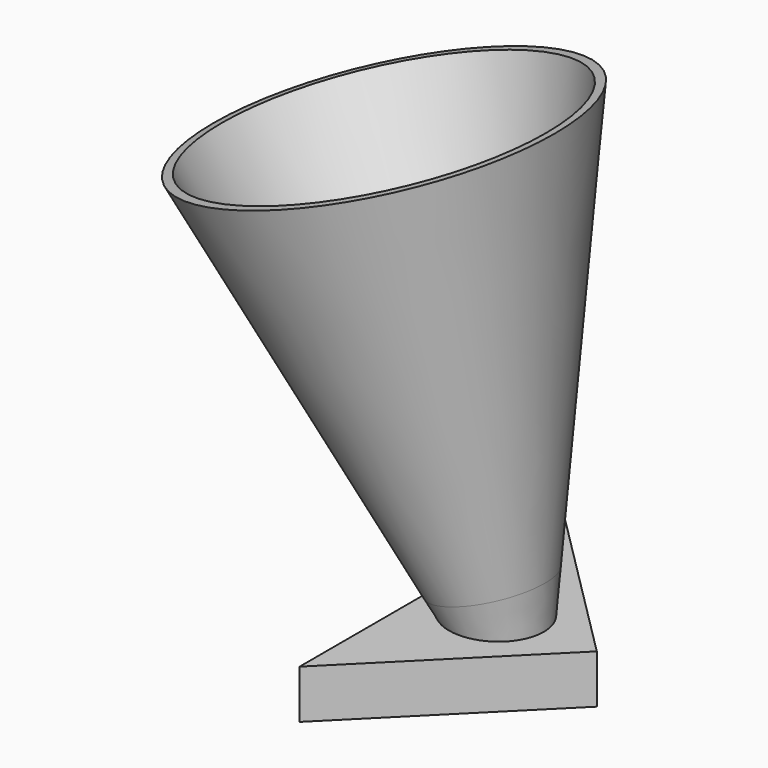
from build123d import *

# Parameters (mm, degrees)
F3_DEPTH = 12.7


with BuildPart() as f1:
    # F0 (on Front) → F1 (revolve)
    with BuildSketch(Plane.XZ):
        Polygon((-153.5377800465, 190.3918104444), (-35.5008375951, 18.8378337771), (-31.2896880625, 18.8378337771), (-149.1814106703, 191.8626129627), align=None)
        Polygon((-35.5008375951, 18.8378337771), (-22.5395507474, 0), (-18.4543896466, 0), (-31.2896880625, 18.8378337771), align=None)
    revolve(axis=Axis((-32.7495573248, 0, 110.0577637553), (-0.2852077577, 0, 0.9584657192)))

    # F2 (on Top) → F3 (join, symmetric)
    with BuildSketch(Plane.XY):
        with BuildLine():
            Line((-39.649366063, -86.1673603178), (46.5179942548, 0))
            Line((46.5179942548, 0), (18.8556073768, 0))
            ThreePointArc((18.8556073768, 0), (0, -18.8556073768), (-18.8556073768, 0))
            Line((-18.8556073768, 0), (-39.649366063, 0))
            Line((-39.649366063, 0), (-39.649366063, -86.1673603178))
        make_face()
        with BuildLine():
            Line((18.8556073768, 0), (46.5179942548, 0))
            Line((46.5179942548, 0), (-39.649366063, 86.1673603178))
            Line((-39.649366063, 86.1673603178), (-39.649366063, 0))
            Line((-39.649366063, 0), (-18.8556073768, 0))
            ThreePointArc((-18.8556073768, 0), (0, 18.8556073768), (18.8556073768, 0))
        make_face()
    extrude(amount=F3_DEPTH, both=True)


solid = f1.part
